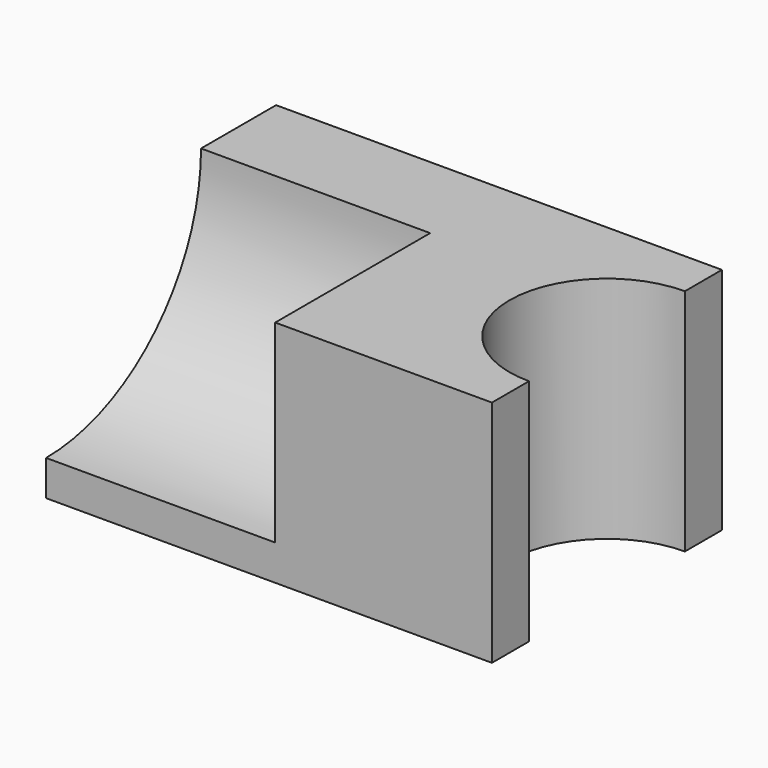
from build123d import *

# Parameters (mm, degrees)
F1_DEPTH = 63.5
F3_DEPTH = 63.5


with BuildPart() as f1:
    # F0 (on Top) → F1 (new body)
    with BuildSketch(Plane.XY):
        with BuildLine():
            Line((61.779875, 27.007597), (61.779875, 39.836202))
            Line((61.779875, 39.836202), (-61.779875, 39.836202))
            Line((-61.779875, 39.836202), (-61.779875, -39.836202))
            Line((-61.779875, -39.836202), (61.779875, -39.836202))
            Line((61.779875, -39.836202), (61.779875, -27.007597))
            ThreePointArc((61.779875, -27.007597), (34.772279, 0), (61.779875, 27.007597))
        make_face()
    extrude(amount=F1_DEPTH)

    # F2 (on face) → F3 (cut)
    with BuildSketch(Plane(origin=(-61.779875, 0, 0), x_dir=(0, -1, 0), z_dir=(-1, 0, 0))):
        with BuildLine():
            Line((39.836202, 63.5), (-13.841395, 63.5))
            ThreePointArc((-13.841395, 63.5), (1.880409, 25.544207), (39.836202, 9.822403))
            Line((39.836202, 9.822403), (39.836202, 63.5))
        make_face()
    extrude(amount=-F3_DEPTH, mode=Mode.SUBTRACT)


solid = f1.part
